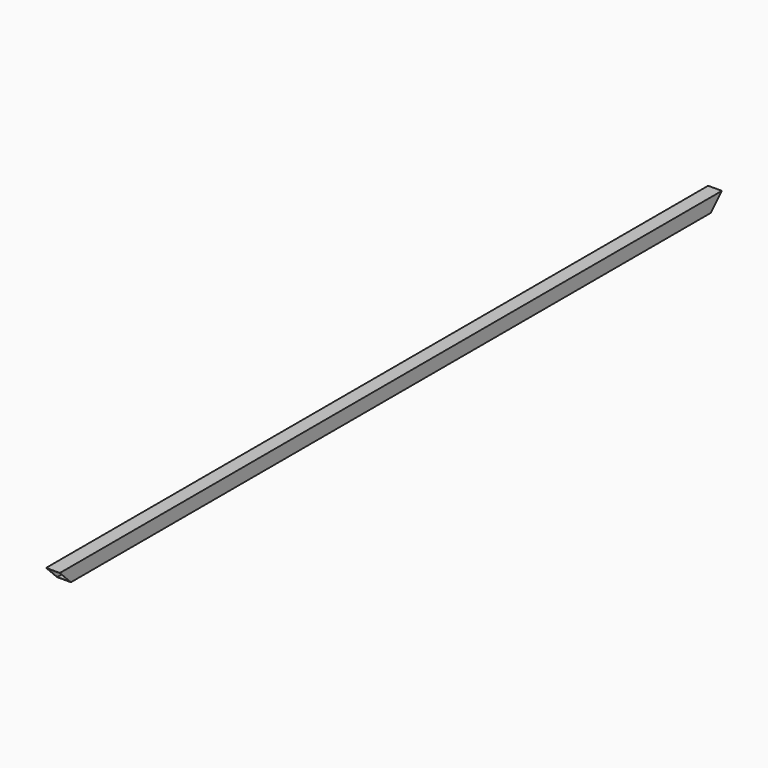
from build123d import *

# Parameters (mm, degrees)
F0_W     = 40
F0_H     = 40
F0_W_2   = 37
F0_H_2   = 37
F1_DEPTH = 1200
F3_DEPTH = 40


with BuildPart() as f1:
    # F0 (on Front) → F1 (new body, symmetric)
    with BuildSketch(Plane.XZ):
        Rectangle(F0_W, F0_H)
        Rectangle(F0_W_2, F0_H_2, mode=Mode.SUBTRACT)
    extrude(amount=F1_DEPTH, both=True)

    # F2 (on face) → F3 (cut)
    with BuildSketch(Plane.YZ.offset(20)):
        Polygon((1200, -20), (1200, 20), (1160, -20), align=None)
        Polygon((-1160, -20), (-1200, 20), (-1200, -20), align=None)
    extrude(amount=-F3_DEPTH, mode=Mode.SUBTRACT)


solid = f1.part
